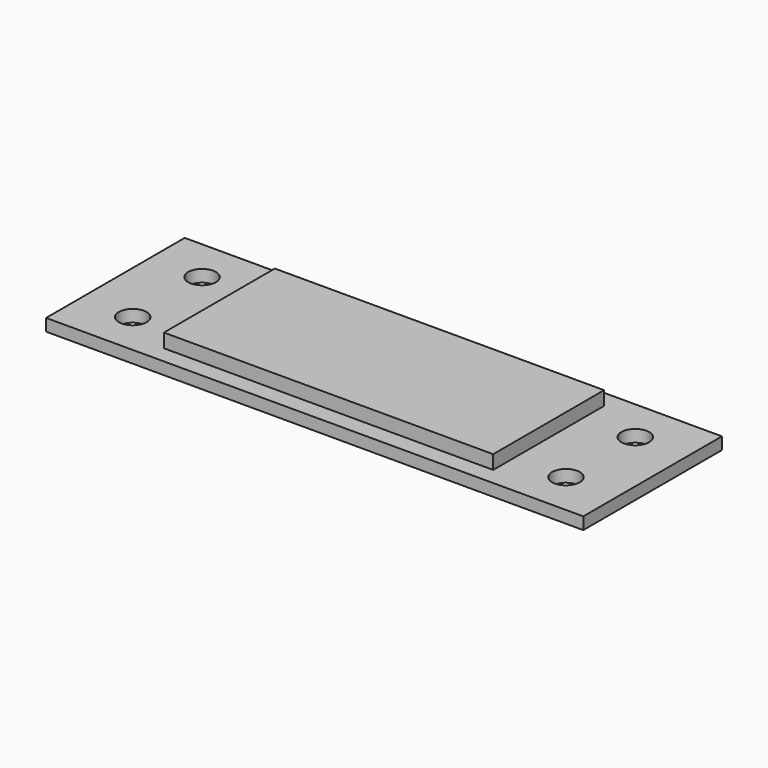
from build123d import *

# Parameters (mm, degrees)
F0_W     = 62
F0_H     = 20
F0_R     = 1.6
F1_DEPTH = 1.4
F2_W     = 38
F2_H     = 16
F3_DEPTH = 1.6


with BuildPart() as f1:
    # F0 (on Top) → F1 (new body)
    with BuildSketch(Plane.XY):
        with Locations((31, 10)):
            Rectangle(F0_W, F0_H)
        with Locations((6, 5)):
            Circle(F0_R, mode=Mode.SUBTRACT)
        with Locations((56, 5)):
            Circle(F0_R, mode=Mode.SUBTRACT)
        with Locations((6, 15)):
            Circle(F0_R, mode=Mode.SUBTRACT)
        with Locations((56, 15)):
            Circle(F0_R, mode=Mode.SUBTRACT)
    extrude(amount=F1_DEPTH)

    # F2 (on face) → F3 (join)
    with BuildSketch(Plane.XY.offset(1.4)):
        with Locations((31, 10)):
            Rectangle(F2_W, F2_H)
    extrude(amount=F3_DEPTH)


solid = f1.part
